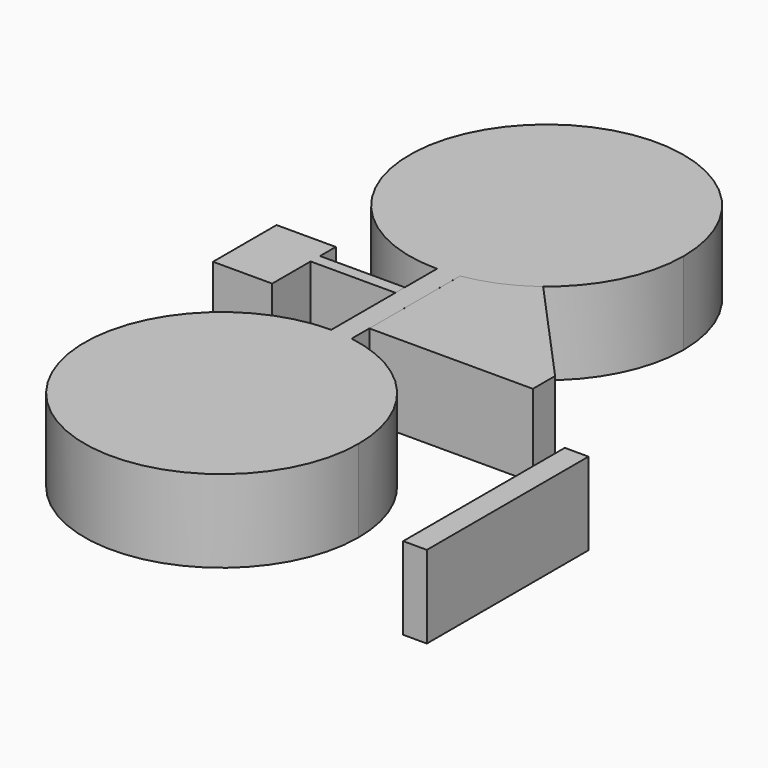
from build123d import *

# Parameters (mm, degrees)
F2_DEPTH = 23.368
F1_R     = 22.1823708078
F1_W     = 6.7154541612
F1_H     = 26.9472375512
F1_H_2   = 30.2940346301
F1_R_2   = 20.4749954706
F1_W_2   = 24.0313000977
F1_H_3   = 3.3249892294


with BuildPart() as f2:
    # F1 (on face) → F2 (new body)
    with BuildSketch(Plane.XY):
        Polygon((6.1597758904, 77.6072144508), (6.1597758904, 52.4990707636), (52.492197603, 52.4990707636), (23.5728248954, 84.3919739127), align=None)
        Polygon((52.492197603, 52.4990707636), (6.1597758904, 52.4990707636), (5.9456601739, 44.6233153343), (52.492197603, 44.6233153343), align=None)
    extrude(amount=F2_DEPTH)


with BuildPart() as f2b:
    # F1 (on face) → F2, piece 2 (new body)
    with BuildSketch(Plane.XY):
        Circle(F1_R)
    extrude(amount=F2_DEPTH)


with BuildPart() as f2c:
    # F1 (on face) → F2, piece 3 (new body)
    with BuildSketch(Plane.XY):
        with Locations((79.0323130786, 13.4736187756)):
            Rectangle(F1_W, F1_H)
        with Locations((79.0323130786, -15.147017315)):
            Rectangle(F1_W, F1_H_2)
    extrude(amount=F2_DEPTH)


with BuildPart() as f2d:
    # F1 (on face) → F2, piece 4 (new body)
    with BuildSketch(Plane.XY):
        with Locations((0, 115.5273094773)):
            Circle(F1_R_2)
    extrude(amount=F2_DEPTH)


with BuildPart() as f2e:
    # F1 (on face) → F2, piece 5 (new body)
    with BuildSketch(Plane.XY):
        with Locations((-12.0156500489, 63.2209833711)):
            Rectangle(F1_W_2, F1_H_3)
        Polygon((-24.0313000977, 61.5584887564), (-24.0313000977, 64.8834779859), (-24.0313000977, 70.4755038023), (-40.8073812723, 70.4755038023), (-40.8073812723, 47.9562617838), (-24.0313000977, 47.9562617838), align=None)
    extrude(amount=F2_DEPTH)


with BuildPart() as f2f:
    # F0 (on Top) → F2, piece 6 (new body)
    with BuildSketch(Plane.XY):
        with BuildLine():
            ThreePointArc((0, 38.839658283), (3.0877584582, 38.71672511), (6.1559705064, 38.3487037938))
            Line((6.1559705064, 38.3487037938), (6.1559705064, 57.5563162565))
            Line((6.1559705064, 57.5563162565), (0, 57.5563162565))
            Line((0, 57.5563162565), (0, 38.839658283))
        make_face()
        with BuildLine():
            Line((0, 57.5563162565), (6.1559705064, 57.5563162565))
            Line((6.1559705064, 57.5563162565), (6.1559705064, 76.7639287192))
            ThreePointArc((6.1559705064, 76.7639287192), (3.0877584582, 76.395907403), (0, 76.27297423))
            Line((0, 76.27297423), (0, 57.5563162565))
        make_face()
        with BuildLine():
            ThreePointArc((0, 76.27297423), (3.0877584582, 76.395907403), (6.1559705064, 76.7639287192))
            ThreePointArc((6.1559705064, 76.7639287192), (29.5602338151, 89.9191485869), (38.839658283, 115.112632513))
            ThreePointArc((38.839658283, 115.112632513), (-27.4637857509, 142.5764182639), (0, 76.27297423))
        make_face()
        with BuildLine():
            ThreePointArc((0, 38.839658283), (-27.4637857509, -27.4637857509), (38.839658283, 0))
            ThreePointArc((38.839658283, 0), (29.5602338151, 25.1934839261), (6.1559705064, 38.3487037938))
            ThreePointArc((6.1559705064, 38.3487037938), (3.0877584582, 38.71672511), (0, 38.839658283))
        make_face()
    extrude(amount=F2_DEPTH)


solid = Compound([f2.part, f2b.part, f2c.part, f2d.part, f2e.part, f2f.part])
